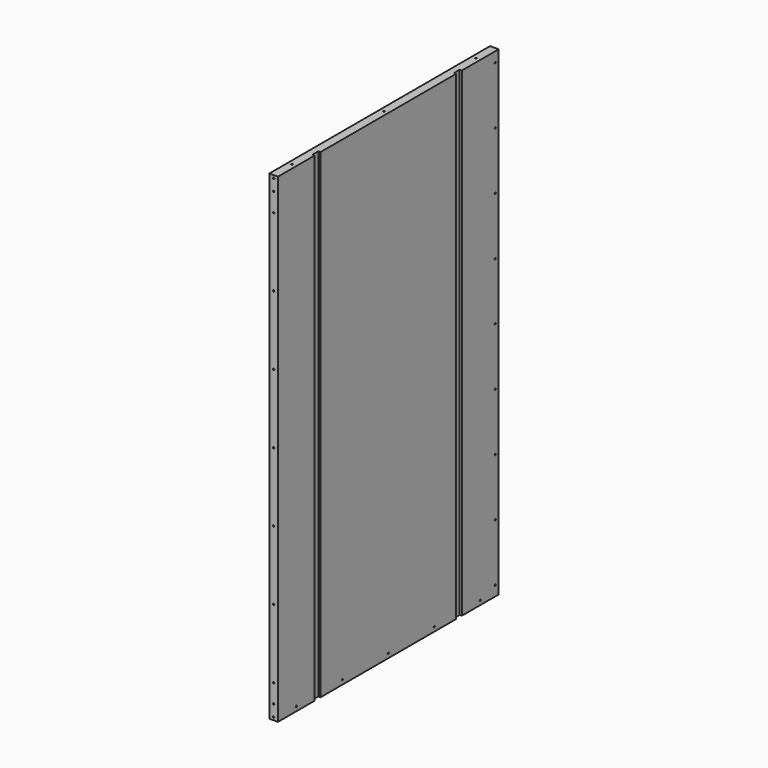
from build123d import *

# Parameters (mm, degrees)
F0_W      = 19.05
F0_H      = 1060.45
F1_DEPTH  = 609.6
F2_R      = 1.5875
F3_DEPTH  = 19.051
F4_R      = 1.5875
F5_DEPTH  = 25.4
F6_R      = 1.5875
F7_DEPTH  = 25.4
F8_R      = 1.5875
F9_DEPTH  = 25.4
F10_R     = 1.5875
F11_DEPTH = 19.051
F12_W     = 4.826
F12_H     = 15.875
F13_DEPTH = 1060.451
F14_W     = 4.826
F14_H     = 15.875
F15_DEPTH = 1060.451
F16_R     = 1.5875
F17_DEPTH = 1060.451


with BuildPart() as f1:
    # F0 (on Front) → F1 (new body)
    with BuildSketch(Plane.XZ):
        with Locations((9.525, 530.225)):
            Rectangle(F0_W, F0_H)
    extrude(amount=-F1_DEPTH)

    # F2 (on Right) → F3 (cut, through all)
    with BuildSketch(Plane.YZ):
        with Locations((50.8, 9.525)):
            Circle(F2_R)
        with Locations((177.8, 9.525)):
            Circle(F2_R)
        with Locations((304.8, 9.525)):
            Circle(F2_R)
        with Locations((431.8, 9.525)):
            Circle(F2_R)
        with Locations((558.8, 9.525)):
            Circle(F2_R)
    extrude(amount=F3_DEPTH, mode=Mode.SUBTRACT)

    # F4 (on Front) → F5 (cut)
    with BuildSketch(Plane.XZ):
        with Locations((9.525, 1054.1)):
            Circle(F4_R)
        with Locations((9.332581, 1028.700729)):
            Circle(F4_R)
    extrude(amount=-F5_DEPTH, mode=Mode.SUBTRACT)

    # F6 (on Front) → F7 (cut)
    with BuildSketch(Plane.XZ):
        with Locations((9.525, 6.35)):
            Circle(F6_R)
        with Locations((9.525, 31.75)):
            Circle(F6_R)
    extrude(amount=-F7_DEPTH, mode=Mode.SUBTRACT)

    # F8 (on Front) → F9 (cut)
    with BuildSketch(Plane.XZ):
        with Locations((9.525, 987.425)):
            Circle(F8_R)
        with Locations((9.525, 835.025)):
            Circle(F8_R)
        with Locations((9.525, 682.625)):
            Circle(F8_R)
        with Locations((9.525, 530.225)):
            Circle(F8_R)
        with Locations((9.525, 377.825)):
            Circle(F8_R)
        with Locations((9.525, 225.425)):
            Circle(F8_R)
        with Locations((9.525, 73.025)):
            Circle(F8_R)
    extrude(amount=-F9_DEPTH, mode=Mode.SUBTRACT)

    # F10 (on face) → F11 (cut, through all)
    with BuildSketch(Plane.YZ.offset(19.05)):
        with Locations((600.075, 1038.225)):
            Circle(F10_R)
        with Locations((600.075, 911.225)):
            Circle(F10_R)
        with Locations((600.075, 784.225)):
            Circle(F10_R)
        with Locations((600.075, 657.225)):
            Circle(F10_R)
        with Locations((600.075, 530.225)):
            Circle(F10_R)
        with Locations((600.075, 403.225)):
            Circle(F10_R)
        with Locations((600.075, 276.225)):
            Circle(F10_R)
        with Locations((600.075, 149.225)):
            Circle(F10_R)
        with Locations((600.075, 22.225)):
            Circle(F10_R)
    extrude(amount=-F11_DEPTH, mode=Mode.SUBTRACT)

    # F12 (on face) → F13 (cut, through all)
    with BuildSketch(Plane(origin=(0, 0, 0), x_dir=(1, 0, 0), z_dir=(0, 0, -1))):
        with Locations((16.637, -109.5375)):
            Rectangle(F12_W, F12_H)
    extrude(amount=-F13_DEPTH, mode=Mode.SUBTRACT)

    # F14 (on face) → F15 (cut, through all)
    with BuildSketch(Plane(origin=(0, 0, 0), x_dir=(1, 0, 0), z_dir=(0, 0, -1))):
        with Locations((16.637, -500.0625)):
            Rectangle(F14_W, F14_H)
    extrude(amount=-F15_DEPTH, mode=Mode.SUBTRACT)

    # F16 (on Top) → F17 (cut, through all)
    with BuildSketch(Plane.XY):
        with Locations((9.525, 50.8)):
            Circle(F16_R)
        with Locations((9.525, 304.8)):
            Circle(F16_R)
        with Locations((9.525, 558.8)):
            Circle(F16_R)
    extrude(amount=F17_DEPTH, mode=Mode.SUBTRACT)


solid = f1.part
